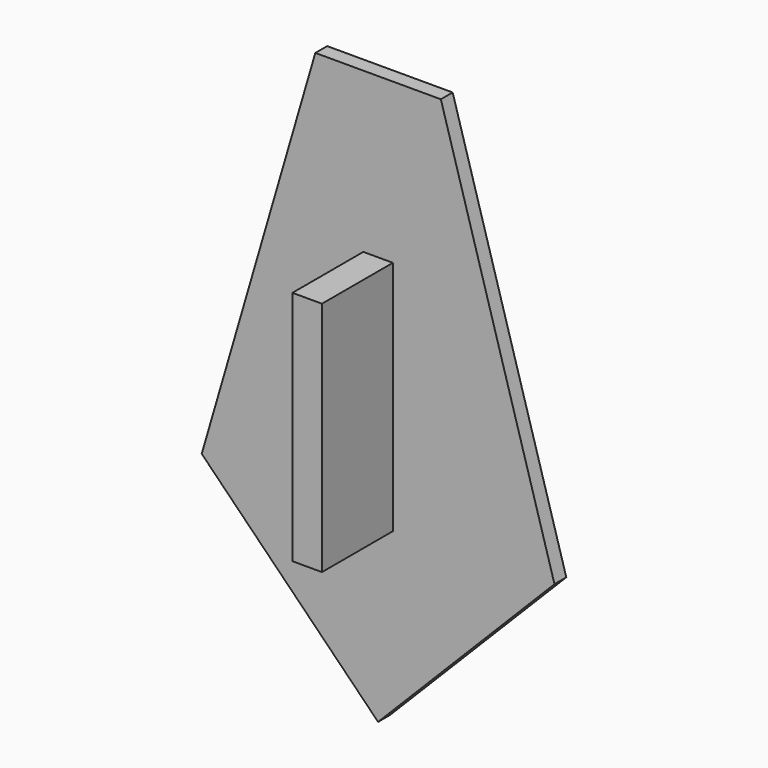
from build123d import *

# Parameters (mm, degrees)
F1_DEPTH = 3.175
F2_W     = 6.35
F2_H     = 50.8
F3_DEPTH = 19.05


with BuildPart() as f1:
    # F0 (on Front) → F1 (new body)
    with BuildSketch(Plane.XZ):
        Polygon((37.919449, -0.323608), (13.49375, 83.502747), (-13.49375, 83.502747), (-37.919449, -0.323608), (0, -38.734753), align=None)
    extrude(amount=F1_DEPTH)

    # F2 (on face) → F3 (join)
    with BuildSketch(Plane.XZ.offset(3.175)):
        with Locations((0, 23.79513)):
            Rectangle(F2_W, F2_H)
    extrude(amount=F3_DEPTH)


solid = f1.part
